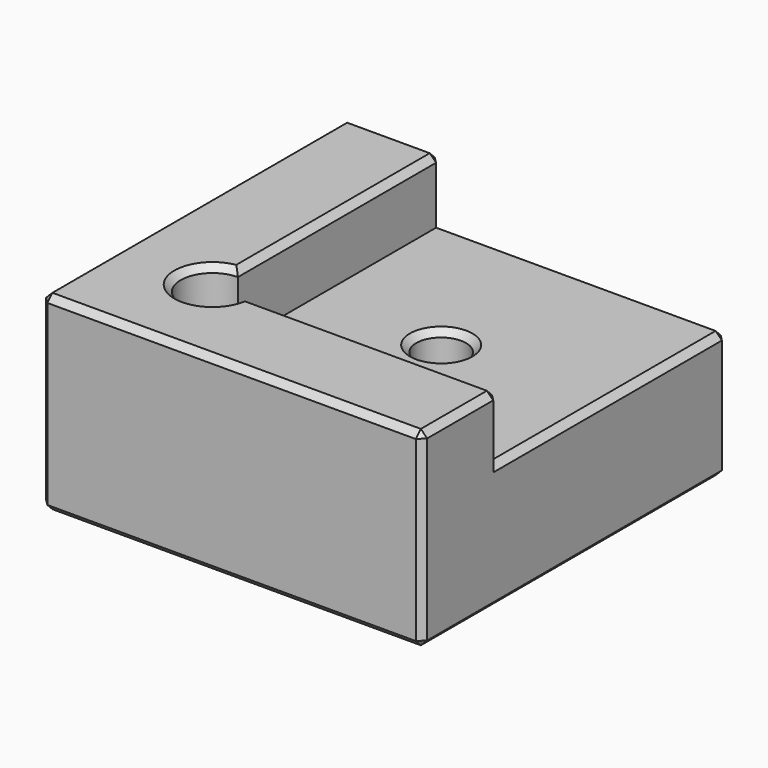
from build123d import *

# Parameters (mm, degrees)
F0_W     = 38.1
F0_H     = 38.1
F1_DEPTH = 19.05
F2_W     = 28.575
F2_H     = 28.575
F3_DEPTH = 6.35
F4_R     = 2.4892
F5_DEPTH = 25.4
F6_R     = 3.175
F7_DEPTH = 6.35
F8_SIZE  = 0.635


with BuildPart() as f1:
    # F0 (on Top) → F1 (new body)
    with BuildSketch(Plane.XY):
        with Locations((19.05, 19.05)):
            Rectangle(F0_W, F0_H)
    extrude(amount=F1_DEPTH)

    # F2 (on face) → F3 (cut)
    with BuildSketch(Plane.XY.offset(19.05)):
        with Locations((23.8125, 23.8125)):
            Rectangle(F2_W, F2_H)
    extrude(amount=-F3_DEPTH, mode=Mode.SUBTRACT)

    # F4 (on face) → F5 (cut)
    with BuildSketch(Plane.XY.offset(12.7)):
        with Locations((22.225, 22.225)):
            Circle(F4_R)
    extrude(amount=-F5_DEPTH, mode=Mode.SUBTRACT)

    # F6 (on face) → F7 (cut)
    with BuildSketch(Plane.XY.offset(19.05)):
        with Locations((9.525, 9.525)):
            Circle(F6_R)
    extrude(amount=-F7_DEPTH, mode=Mode.SUBTRACT)

    # F8
    f8_edges = [f1.edges().sort_by_distance(p)[0] for p in [
        (9.525, 25.4, 19.05),
        (7.279936, 7.279936, 19.05),
        (25.4, 9.525, 19.05),
        (38.1, 4.7625, 19.05),
        (19.05, 0, 19.05),
        (0, 19.05, 19.05),
        (4.7625, 38.1, 19.05),
        (0, 38.1, 9.525),
        (0, 0, 9.525),
        (0, 19.05, 0),
        (38.1, 0, 9.525),
        (19.05, 0, 0),
        (19.05, 38.1, 0),
        (38.1, 19.05, 0),
        (19.7358, 22.225, 0),
        (38.1, 38.1, 6.35),
        (38.1, 23.8125, 12.7),
        (38.1, 9.525, 15.875),
        (9.525, 38.1, 15.875),
        (23.8125, 38.1, 12.7),
        (19.7358, 22.225, 12.7),
    ]]
    chamfer(f8_edges, length=F8_SIZE)


solid = f1.part
